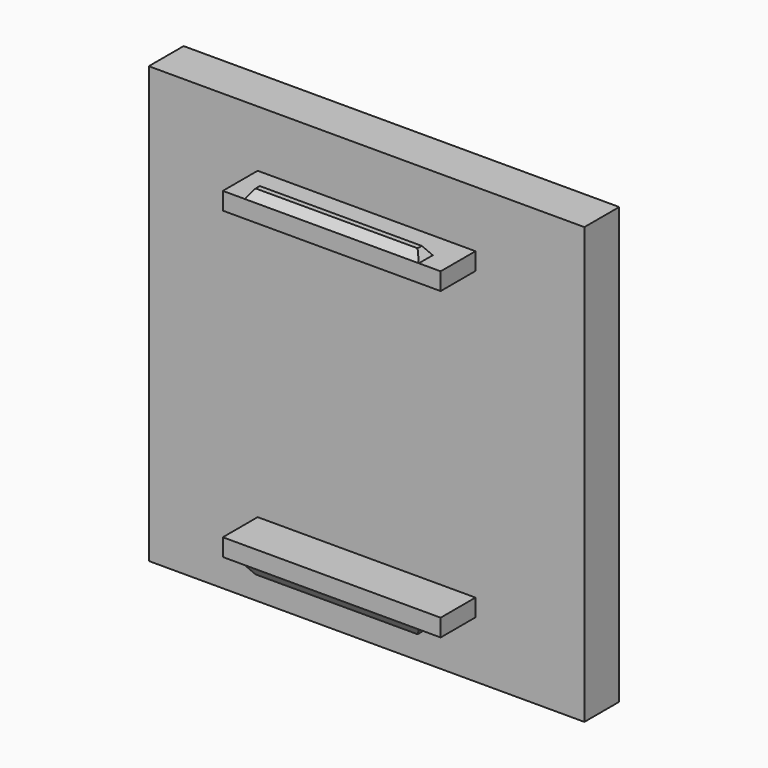
from build123d import *

# Parameters (mm, degrees)
F0_W          = 12.7
F0_H          = 1.016
F1_DEPTH      = 2.54
F1_DEPTH_BACK = 2.54
F0_W_2        = 25.4
F0_H_2        = 25.4
F2_DEPTH      = 2.54
F3_W          = 10.16
F3_H          = 1.016
F4_DEPTH      = 0.508
F4_TAPER      = 35


with BuildPart() as f1:
    # F0 (on Front) → F1 (new body, two sides)
    with BuildSketch(Plane.XZ) as f1_sk:
        with Locations((0, 8.89)):
            Rectangle(F0_W, F0_H)
    extrude(amount=F1_DEPTH)
    extrude(f1_sk.sketch, amount=-F1_DEPTH_BACK)

    # F0 (on Front) → F2 (join)
    with BuildSketch(Plane.XZ):
        Rectangle(F0_W_2, F0_H_2)
        with Locations((0, 8.89)):
            Rectangle(F0_W, F0_H, mode=Mode.SUBTRACT)
    extrude(amount=-F2_DEPTH)

    # F3 (on face) → F4 (join)
    with BuildSketch(Plane.XY.offset(9.398)):
        with Locations((0, -2.032)):
            Rectangle(F3_W, F3_H)
    extrude(amount=F4_DEPTH, taper=F4_TAPER)

    # F5: F1 across plane


with BuildPart() as f1_1:
    add(f1.part)
    add(f1.part.mirror(Plane.XY))


solid = f1_1.part
